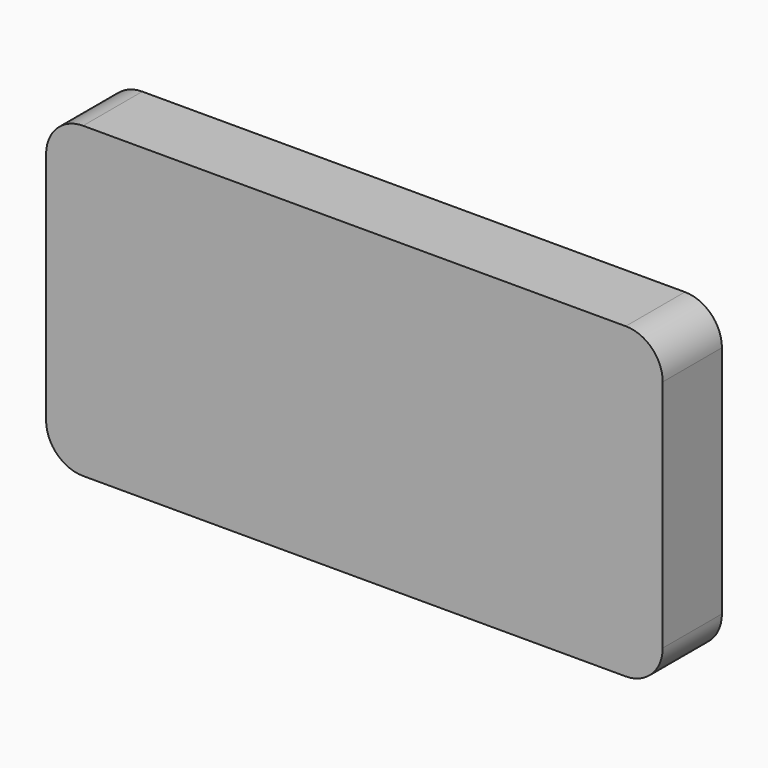
from build123d import *

# Parameters (mm, degrees)
F1_DEPTH = 3


with BuildPart() as f1:
    # F0 (on Front) → F1 (new body, symmetric)
    with BuildSketch(Plane.XZ):
        with BuildLine():
            Line((-22, -12.5), (22, -12.5))
            ThreePointArc((22, -12.5), (24.12132, -11.62132), (25, -9.5))
            Line((25, -9.5), (25, 9.5))
            ThreePointArc((25, 9.5), (24.12132, 11.62132), (22, 12.5))
            Line((22, 12.5), (-22, 12.5))
            ThreePointArc((-22, 12.5), (-24.12132, 11.62132), (-25, 9.5))
            Line((-25, 9.5), (-25, -9.5))
            ThreePointArc((-25, -9.5), (-24.12132, -11.62132), (-22, -12.5))
        make_face()
    extrude(amount=F1_DEPTH, both=True)


solid = f1.part
